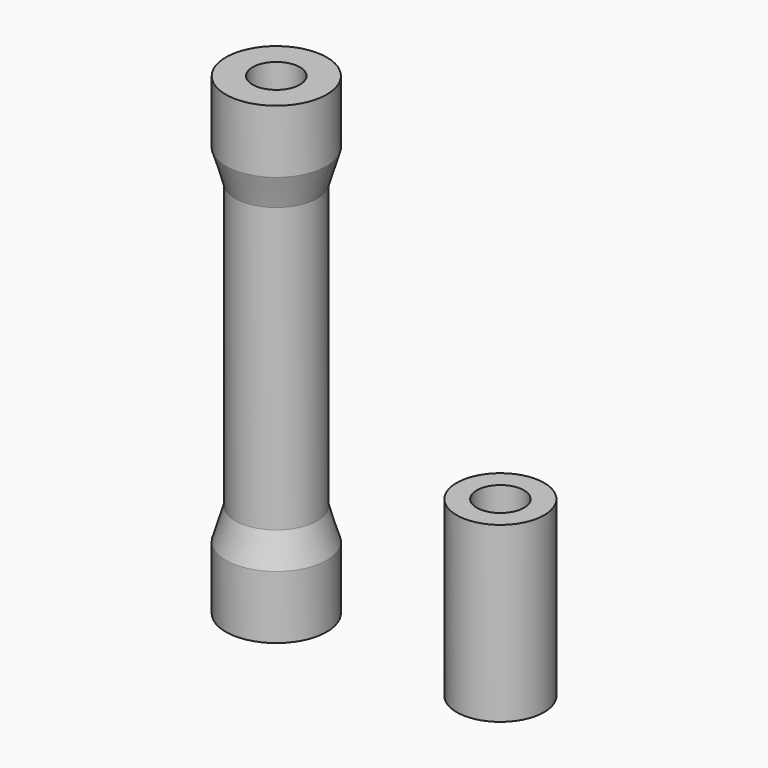
from build123d import *

# Parameters (mm, degrees)
F0_R      = 3.2
F1_DEPTH  = 4
F1_FACE_R = 3.2
F3_R      = 2.6
F9_DEPTH  = 18
F6_R      = 2.6
F8_R      = 3.2
F11_DEPTH = 4
F12_R     = 1.5
F13_DEPTH = 50
F14_R     = 2.775
F14_R_2   = 1.5
F15_DEPTH = 11


with BuildPart() as f1:
    # F0 (on Top) → F1 (new body)
    with BuildSketch(Plane.XY):
        Circle(F0_R)
    extrude(amount=F1_DEPTH)

    # F1_face (on face) → F4 section 0
    with BuildSketch(Plane.XY.offset(4)):
        Circle(F1_FACE_R)
    # F3 (on offset) → F4 section 1
    with BuildSketch(Plane.XY.offset(6)):
        Circle(F3_R)
    loft()

    # F3 (on offset) → F9 (join)
    with BuildSketch(Plane.XY.offset(6)):
        Circle(F3_R)
    extrude(amount=F9_DEPTH)

    # F6 (on offset) → F10 section 0
    with BuildSketch(Plane.XY.offset(24)):
        Circle(F6_R)
    # F8 (on offset) → F10 section 1
    with BuildSketch(Plane.XY.offset(26)):
        Circle(F8_R)
    loft()

    # F8 (on offset) → F11 (join)
    with BuildSketch(Plane.XY.offset(26)):
        Circle(F8_R)
    extrude(amount=F11_DEPTH)

    # F12 (on Top) → F13 (cut)
    with BuildSketch(Plane.XY):
        Circle(F12_R)
    extrude(amount=F13_DEPTH, mode=Mode.SUBTRACT)


with BuildPart() as f15:
    # F14 (on Top) → F15 (new body)
    with BuildSketch(Plane.XY):
        with Locations((14.212486, 0)):
            Circle(F14_R)
        with Locations((14.212486, 0)):
            Circle(F14_R_2, mode=Mode.SUBTRACT)
    extrude(amount=F15_DEPTH)


solid = Compound([f1.part, f15.part])
